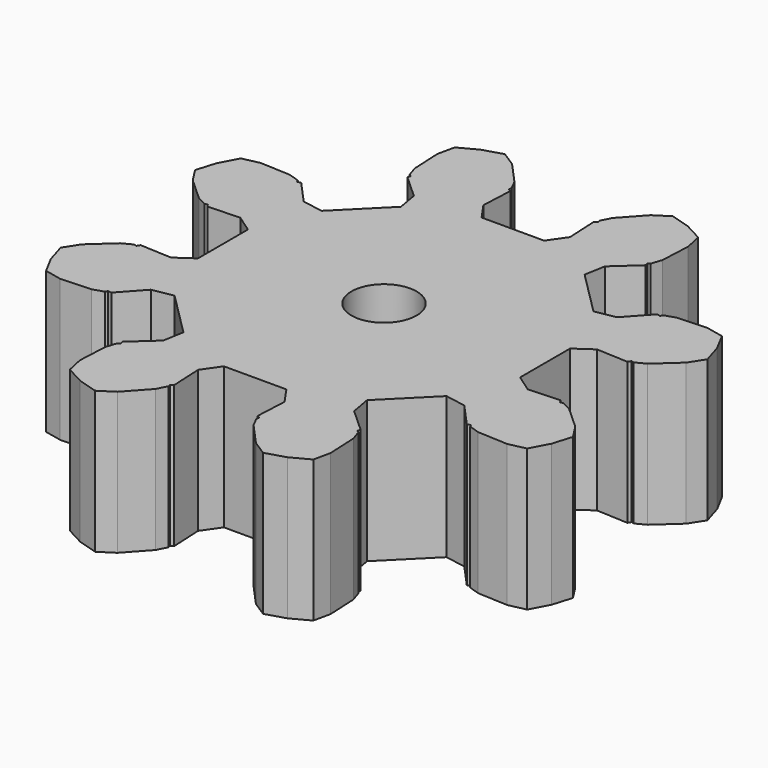
from build123d import *

# Parameters (mm, degrees)
F0_R     = 1.15
F1_DEPTH = 5


with BuildPart() as f1:
    # F0 (on Top) → F1 (new body)
    with BuildSketch(Plane.XY):
        Polygon((16.878815, 4.41878), (16.275237, 4.288141), (15.934336, 3.650362), (15.724411, 2.95833), (16.05883, 2.439161), (16.845622, 1.725423), (17.196477, 1.54501), (17.287369, 1.574171), (17.346336, 1.472038), (17.364772, 1.468048), (18.46798, 1.521759), (19.077158, 1.09742), (19.077158, -1.105412), (18.46798, -1.529751), (17.364772, -1.47604), (17.346336, -1.48003), (17.287369, -1.582163), (17.196477, -1.553002), (16.845622, -1.733415), (16.05883, -2.447153), (15.724411, -2.966322), (15.934336, -3.658354), (16.275237, -4.296133), (16.878815, -4.426772), (17.93985, -4.375114), (18.315512, -4.254594), (18.359164, -4.169703), (18.488936, -4.190011), (19.231042, -3.371947), (19.961849, -3.241246), (21.519487, -4.798883), (21.388785, -5.52969), (20.570721, -6.271796), (20.560505, -6.287654), (20.591029, -6.401568), (20.506138, -6.44522), (20.385618, -6.820882), (20.33396, -7.881917), (20.464599, -8.485495), (21.102378, -8.826396), (21.79441, -9.036321), (22.313579, -8.701902), (23.027317, -7.91511), (23.20773, -7.564255), (23.178569, -7.473363), (23.280702, -7.414397), (23.284692, -7.39596), (23.230981, -6.292752), (23.65532, -5.683574), (25.858152, -5.683574), (26.282491, -6.292752), (26.22878, -7.39596), (26.23277, -7.414397), (26.334903, -7.473363), (26.305743, -7.564255), (26.486155, -7.91511), (27.199893, -8.701902), (27.719062, -9.036321), (28.411094, -8.826396), (29.048874, -8.485495), (29.179512, -7.881917), (29.127854, -6.820882), (29.007334, -6.44522), (28.922444, -6.401568), (28.952967, -6.287654), (28.942751, -6.271796), (28.124687, -5.52969), (27.993986, -4.798883), (29.551623, -3.241246), (30.28243, -3.371947), (31.024536, -4.190011), (31.040394, -4.200227), (31.154308, -4.169703), (31.19796, -4.254594), (31.573623, -4.375114), (32.634657, -4.426772), (33.238235, -4.296133), (33.579136, -3.658354), (33.789061, -2.966322), (33.454642, -2.447153), (32.66785, -1.733415), (32.316996, -1.553002), (32.226103, -1.582163), (32.167137, -1.48003), (32.1487, -1.47604), (31.045493, -1.529751), (30.436314, -1.105412), (30.436314, 1.09742), (31.045493, 1.521759), (32.1487, 1.468048), (32.167137, 1.472038), (32.226103, 1.574171), (32.316996, 1.54501), (32.66785, 1.725423), (33.454642, 2.439161), (33.789061, 2.95833), (33.579136, 3.650362), (33.238235, 4.288141), (32.634657, 4.41878), (31.573623, 4.367122), (31.19796, 4.246602), (31.154308, 4.161711), (31.040394, 4.192235), (31.024536, 4.182019), (30.28243, 3.363955), (29.551623, 3.233254), (27.993986, 4.790891), (28.124687, 5.521698), (28.942751, 6.263804), (28.952967, 6.279662), (28.922444, 6.393576), (29.007334, 6.437228), (29.127854, 6.81289), (29.179512, 7.873925), (29.048874, 8.477503), (28.411094, 8.818404), (27.719062, 9.028329), (27.199893, 8.69391), (26.486155, 7.907118), (26.305743, 7.556263), (26.334903, 7.465371), (26.23277, 7.406405), (26.22878, 7.387968), (26.282491, 6.28476), (25.858152, 5.675582), (23.65532, 5.675582), (23.230981, 6.28476), (23.284692, 7.387968), (23.280702, 7.406405), (23.178569, 7.465371), (23.20773, 7.556263), (23.027317, 7.907118), (22.313579, 8.69391), (21.79441, 9.028329), (21.102378, 8.818404), (20.464599, 8.477503), (20.33396, 7.873925), (20.385618, 6.81289), (20.506138, 6.437228), (20.591029, 6.393576), (20.560505, 6.279662), (20.570721, 6.263804), (21.388785, 5.521698), (21.519487, 4.790891), (19.961849, 3.233254), (19.231042, 3.363955), (18.488936, 4.182019), (18.473078, 4.192235), (18.359164, 4.161711), (18.315512, 4.246602), (17.93985, 4.367122), align=None)
        with Locations((24.756736, -0.003996)):
            Circle(F0_R, mode=Mode.SUBTRACT)
    extrude(amount=F1_DEPTH)


solid = f1.part
